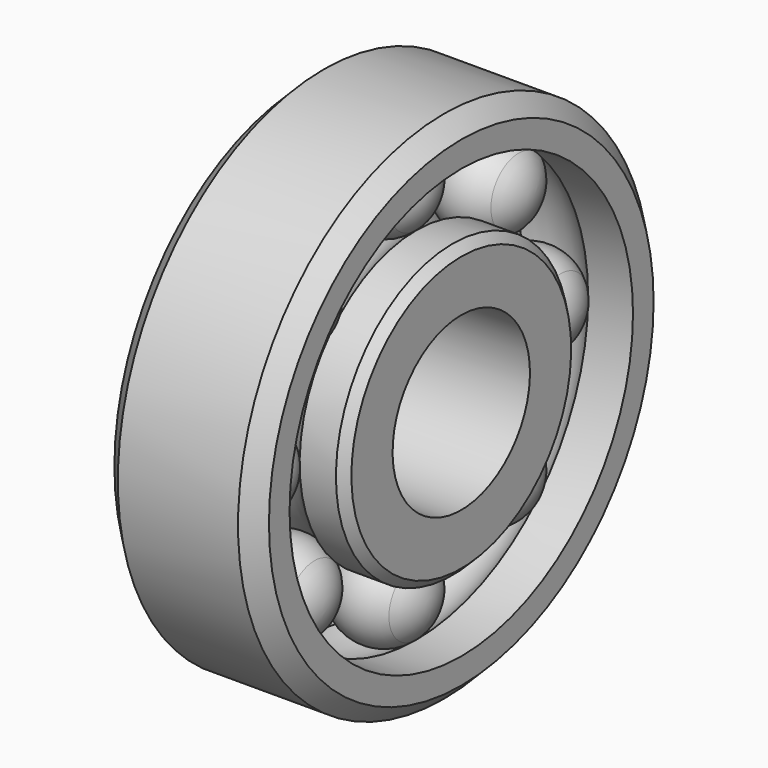
from build123d import *

# Parameters (mm, degrees)
F3_COUNT = 8
F4_SIZE  = 1
F5_SIZE  = 0.5
F6_ANGLE = 90


with BuildPart() as f1:
    # F0 (on Right) → F1 (revolve)
    with BuildSketch(Plane.YZ):
        with BuildLine():
            Line((4.5, 8.5), (1.8874586088, 8.5))
            ThreePointArc((1.8874586088, 8.5), (0, 7.75), (-1.8874586088, 8.5))
            Line((-1.8874586088, 8.5), (-4.5, 8.5))
            Line((-4.5, 8.5), (-4.5, 5))
            Line((-4.5, 5), (4.5, 5))
            Line((4.5, 5), (4.5, 8.5))
        make_face()
    revolve(axis=Axis((0, 0.4544019319, 0), (0, 1, 0)))

    # F5
    f5_edges = [f1.edges().sort_by_distance(p)[0] for p in [
        (0, -4.5, -8.5),
        (0, 4.5, -8.5),
    ]]
    chamfer(f5_edges, length=F5_SIZE)


with BuildPart() as f1b:
    # F0 (on Right) → F1, piece 2 (revolve)
    with BuildSketch(Plane.YZ):
        with BuildLine():
            ThreePointArc((-1.8874586088, 12.5), (0, 13.25), (1.8874586088, 12.5))
            Line((1.8874586088, 12.5), (4.5, 12.5))
            Line((4.5, 12.5), (4.5, 15))
            Line((4.5, 15), (-4.5, 15))
            Line((-4.5, 15), (-4.5, 12.5))
            Line((-4.5, 12.5), (-1.8874586088, 12.5))
        make_face()
    revolve(axis=Axis((0, 0.4544019319, 0), (0, 1, 0)))

    # F4
    f4_edges = [f1b.edges().sort_by_distance(p)[0] for p in [
        (0, -4.5, -15),
        (0, 4.5, -15),
    ]]
    chamfer(f4_edges, length=F4_SIZE)


with BuildPart() as f2:
    # F0 (on Right) → F2 (revolve)
    with BuildSketch(Plane.YZ):
        with BuildLine():
            Line((-2.75, 10.5), (2.75, 10.5))
            ThreePointArc((2.75, 10.5), (2.5251743677, 11.589033706), (1.8874586088, 12.5))
            Line((1.8874586088, 12.5), (-1.8874586088, 12.5))
            ThreePointArc((-1.8874586088, 12.5), (-2.5251743677, 11.589033706), (-2.75, 10.5))
        make_face()
        with BuildLine():
            Line((-1.8874586088, 12.5), (1.8874586088, 12.5))
            ThreePointArc((1.8874586088, 12.5), (0, 13.25), (-1.8874586088, 12.5))
        make_face()
    revolve(axis=Axis((0, 1.6359726433, 10.5), (0, 1, 0)))


with BuildPart() as f3_1:
    # F3: instance of F2
    add(f2.part.rotate(Axis((0, 0.4544019319, 0), (0, 1, 0)), 1 * 360 / F3_COUNT))


with BuildPart() as f3_2:
    # F3: instance of F2
    add(f2.part.rotate(Axis((0, 0.4544019319, 0), (0, 1, 0)), 2 * 360 / F3_COUNT))


with BuildPart() as f3_3:
    # F3: instance of F2
    add(f2.part.rotate(Axis((0, 0.4544019319, 0), (0, 1, 0)), 3 * 360 / F3_COUNT))


with BuildPart() as f3_4:
    # F3: instance of F2
    add(f2.part.rotate(Axis((0, 0.4544019319, 0), (0, 1, 0)), 4 * 360 / F3_COUNT))


with BuildPart() as f3_5:
    # F3: instance of F2
    add(f2.part.rotate(Axis((0, 0.4544019319, 0), (0, 1, 0)), 5 * 360 / F3_COUNT))


with BuildPart() as f3_6:
    # F3: instance of F2
    add(f2.part.rotate(Axis((0, 0.4544019319, 0), (0, 1, 0)), 6 * 360 / F3_COUNT))


with BuildPart() as f3_7:
    # F3: instance of F2
    add(f2.part.rotate(Axis((0, 0.4544019319, 0), (0, 1, 0)), 7 * 360 / F3_COUNT))


with BuildPart() as f1b_1:
    # F6: moved
    add(f1b.part.rotate(Axis((0, 0, 15.467598103), (0, 0, 1)), F6_ANGLE))


with BuildPart() as f3_3_1:
    # F6: moved
    add(f3_3.part.rotate(Axis((0, 0, 15.467598103), (0, 0, 1)), F6_ANGLE))


with BuildPart() as f3_2_1:
    # F6: moved
    add(f3_2.part.rotate(Axis((0, 0, 15.467598103), (0, 0, 1)), F6_ANGLE))


with BuildPart() as f3_1_1:
    # F6: moved
    add(f3_1.part.rotate(Axis((0, 0, 15.467598103), (0, 0, 1)), F6_ANGLE))


with BuildPart() as f1_1:
    # F6: moved
    add(f1.part.rotate(Axis((0, 0, 15.467598103), (0, 0, 1)), F6_ANGLE))


with BuildPart() as f3_4_1:
    # F6: moved
    add(f3_4.part.rotate(Axis((0, 0, 15.467598103), (0, 0, 1)), F6_ANGLE))


with BuildPart() as f2_1:
    # F6: moved
    add(f2.part.rotate(Axis((0, 0, 15.467598103), (0, 0, 1)), F6_ANGLE))


with BuildPart() as f3_6_1:
    # F6: moved
    add(f3_6.part.rotate(Axis((0, 0, 15.467598103), (0, 0, 1)), F6_ANGLE))


with BuildPart() as f3_5_1:
    # F6: moved
    add(f3_5.part.rotate(Axis((0, 0, 15.467598103), (0, 0, 1)), F6_ANGLE))


with BuildPart() as f3_7_1:
    # F6: moved
    add(f3_7.part.rotate(Axis((0, 0, 15.467598103), (0, 0, 1)), F6_ANGLE))


solid = Compound([f1b_1.part, f3_3_1.part, f3_2_1.part, f3_1_1.part, f1_1.part, f3_4_1.part, f2_1.part, f3_6_1.part, f3_5_1.part, f3_7_1.part])
